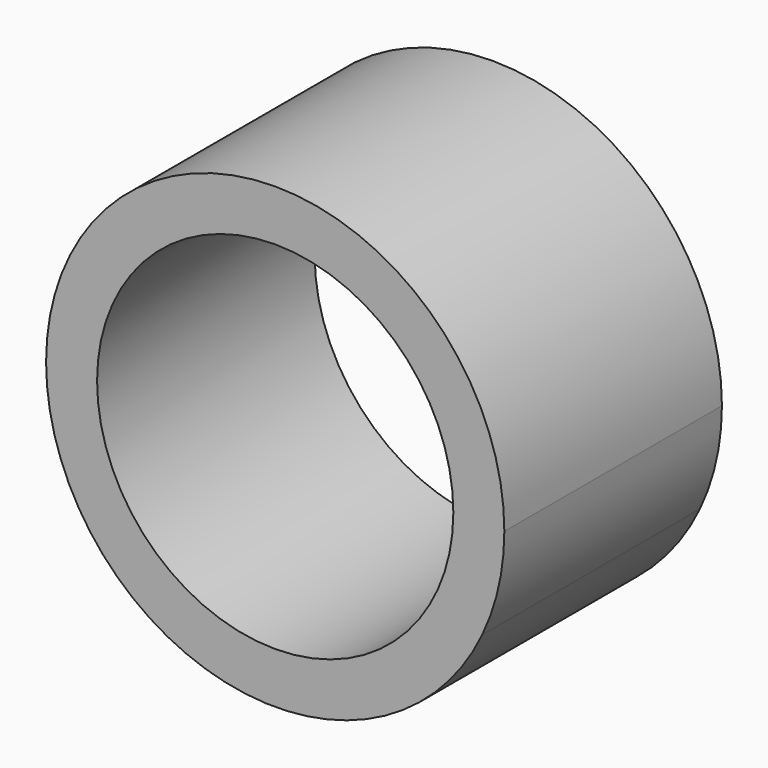
from build123d import *

# Parameters (mm, degrees)
F0_R     = 33.272009
F2_DEPTH = 50.8


with BuildPart() as f2:
    # F0 (on Front) → F2 (new body)
    with BuildSketch(Plane.XZ):
        with BuildLine():
            ThreePointArc((38.679774, -18.315542), (41.755016, -9.386303), (42.797009, 0))
            ThreePointArc((42.797009, 0), (0, 42.797009), (-42.797009, 0))
            ThreePointArc((-42.797009, 0), (-9.386303, -41.755016), (38.679774, -18.315542))
        make_face()
        Circle(F0_R, mode=Mode.SUBTRACT)
    extrude(amount=-F2_DEPTH)


solid = f2.part
